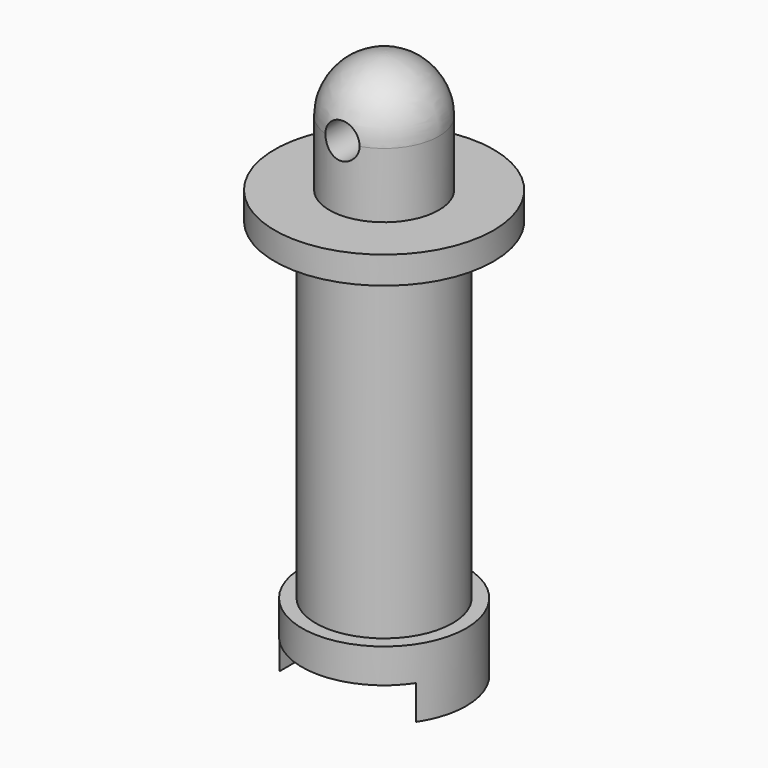
from build123d import *

# Parameters (mm, degrees)
F2_W     = 10
F2_H     = 2.5
F2_R     = 1.25
F3_DEPTH = 12.5


with BuildPart() as f1:
    # F0 (on Front) → F1 (revolve)
    with BuildSketch(Plane.XZ):
        with BuildLine():
            Line((1.75, 25), (1.75, 0))
            Line((1.75, 0), (6, 0))
            Line((6, 0), (6, 5))
            Line((6, 5), (5, 5))
            Line((5, 5), (5, 29.25))
            Line((5, 29.25), (8, 29.25))
            Line((8, 29.25), (8, 31.25))
            Line((8, 31.25), (4, 31.25))
            Line((4, 31.25), (4, 36))
            ThreePointArc((4, 36), (2.828427, 38.828427), (0, 40))
            Line((0, 40), (0, 25))
            Line((0, 25), (1.75, 25))
        make_face()
    revolve(axis=Axis((0, 0, 32.5), (0, 0, -1)))

    # F2 (on Front) → F3 (cut, symmetric)
    with BuildSketch(Plane.XZ):
        with Locations((0, 1.25)):
            Rectangle(F2_W, F2_H)
        with Locations((0, 36)):
            Circle(F2_R)
    extrude(amount=F3_DEPTH, both=True, mode=Mode.SUBTRACT)


solid = f1.part
